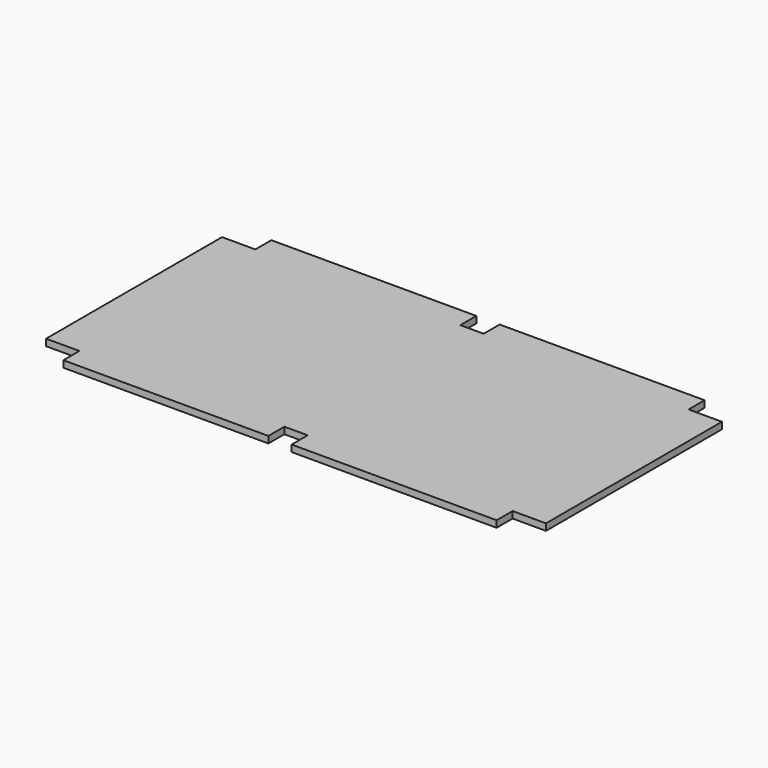
from build123d import *

# Parameters (mm, degrees)
F1_DEPTH = 25.4


with BuildPart() as f1:
    # F0 (on Top) → F1 (new body)
    with BuildSketch(Plane.XY):
        Polygon((44.45, -495.3), (825.5, -495.3), (825.5, -419.1), (952.5, -419.1), (952.5, 419.1), (825.5, 419.1), (825.5, 495.3), (44.45, 495.3), (44.45, 419.1), (-44.45, 419.1), (-44.45, 495.3), (-825.5, 495.3), (-825.5, 419.1), (-952.5, 419.1), (-952.5, -419.1), (-825.5, -419.1), (-825.5, -495.3), (-44.45, -495.3), (-44.45, -419.1), (44.45, -419.1), align=None)
    extrude(amount=F1_DEPTH)


solid = f1.part
